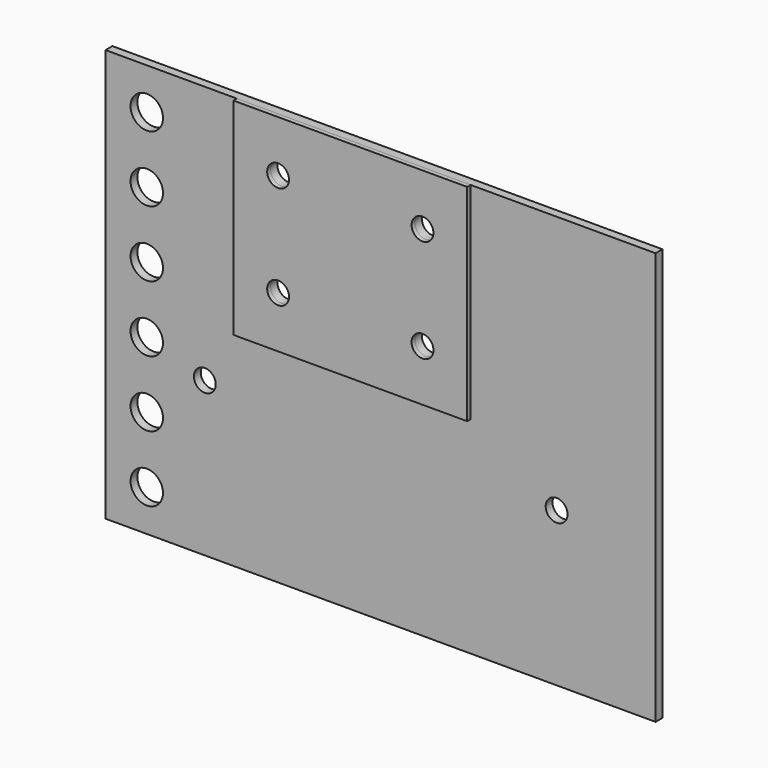
from build123d import *

# Parameters (mm, degrees)
F0_W     = 43.18
F0_H     = 38.1
F0_R     = 2.0193
F1_DEPTH = 0.79375
F0_R_2   = 2.9972
F2_DEPTH = 1.5875


with BuildPart() as f1:
    # F0 (on Front) → F1 (new body)
    with BuildSketch(Plane.XZ):
        with Locations((6.039802, 19.05)):
            Rectangle(F0_W, F0_H)
        with Locations((-7.295198, 9.525)):
            Circle(F0_R, mode=Mode.SUBTRACT)
        with Locations((-7.295198, 28.575)):
            Circle(F0_R, mode=Mode.SUBTRACT)
        with Locations((19.374802, 9.525)):
            Circle(F0_R, mode=Mode.SUBTRACT)
        with Locations((19.374802, 28.575)):
            Circle(F0_R, mode=Mode.SUBTRACT)
    extrude(amount=F1_DEPTH)


with BuildPart() as f2:
    # F0 (on Front) → F2 (new body)
    with BuildSketch(Plane.XZ):
        Polygon((-15.550198, 38.1), (-39.807198, 38.1), (-39.807198, -38.1), (61.792802, -38.1), (61.792802, 38.1), (27.629802, 38.1), (27.629802, 0), (-15.550198, 0), align=None)
        with Locations((-32.187198, -30.48)):
            Circle(F0_R_2, mode=Mode.SUBTRACT)
        with Locations((-32.187198, -18.288)):
            Circle(F0_R_2, mode=Mode.SUBTRACT)
        with Locations((-21.468398, -9.652)):
            Circle(F0_R, mode=Mode.SUBTRACT)
        with Locations((-32.187198, -6.096)):
            Circle(F0_R_2, mode=Mode.SUBTRACT)
        with Locations((43.504802, -9.652)):
            Circle(F0_R, mode=Mode.SUBTRACT)
        with Locations((-32.187198, 6.096)):
            Circle(F0_R_2, mode=Mode.SUBTRACT)
        with Locations((-32.187198, 18.288)):
            Circle(F0_R_2, mode=Mode.SUBTRACT)
        with Locations((-32.187198, 30.48)):
            Circle(F0_R_2, mode=Mode.SUBTRACT)
        with Locations((6.039802, 19.05)):
            Rectangle(F0_W, F0_H)
        with Locations((-7.295198, 9.525)):
            Circle(F0_R, mode=Mode.SUBTRACT)
        with Locations((-7.295198, 28.575)):
            Circle(F0_R, mode=Mode.SUBTRACT)
        with Locations((19.374802, 9.525)):
            Circle(F0_R, mode=Mode.SUBTRACT)
        with Locations((19.374802, 28.575)):
            Circle(F0_R, mode=Mode.SUBTRACT)
    extrude(amount=-F2_DEPTH)


solid = Compound([f1.part, f2.part])
